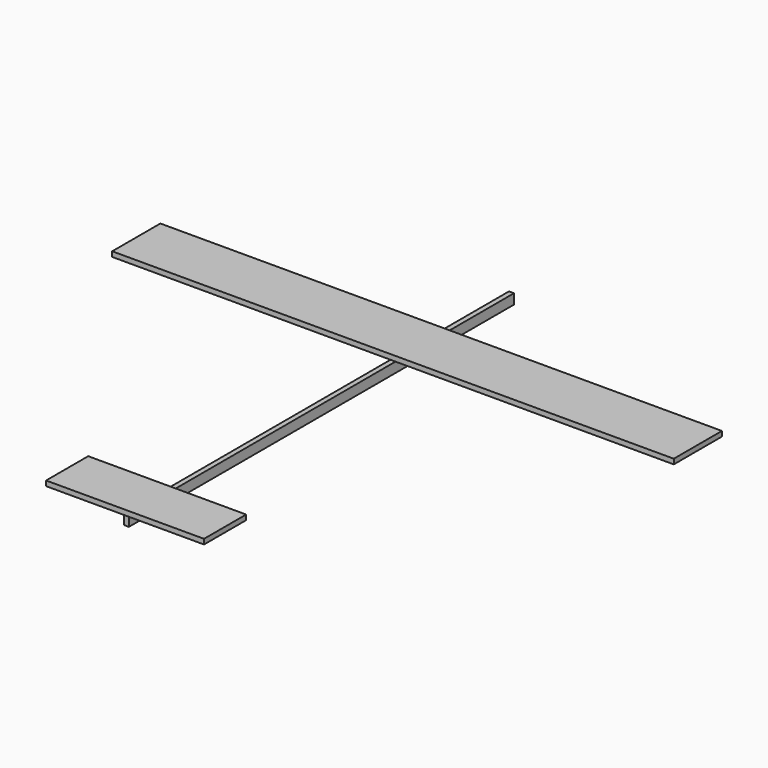
from build123d import *

# Parameters (mm, degrees)
F1_W     = 355.6
F1_H     = 38.1
F2_DEPTH = 3.175
F1_W_2   = 100.0125
F1_H_2   = 33.3375
F3_DEPTH = 3.175
F0_W     = 3.175
F0_H     = 304.8
F4_DEPTH = 6.35


with BuildPart() as f2:
    # F1 (on Top) → F2 (new body)
    with BuildSketch(Plane.XY):
        with Locations((0, 77.683354)):
            Rectangle(F1_W, F1_H)
    extrude(amount=F2_DEPTH)


with BuildPart() as f3:
    # F1 (on Top) → F3 (new body)
    with BuildSketch(Plane.XY):
        with Locations((0, -136.793778)):
            Rectangle(F1_W_2, F1_H_2)
    extrude(amount=F3_DEPTH)


with BuildPart() as f4:
    # F0 (on Top) → F4 (new body)
    with BuildSketch(Plane.XY):
        Rectangle(F0_W, F0_H)
    extrude(amount=-F4_DEPTH)


solid = Compound([f2.part, f3.part, f4.part])
